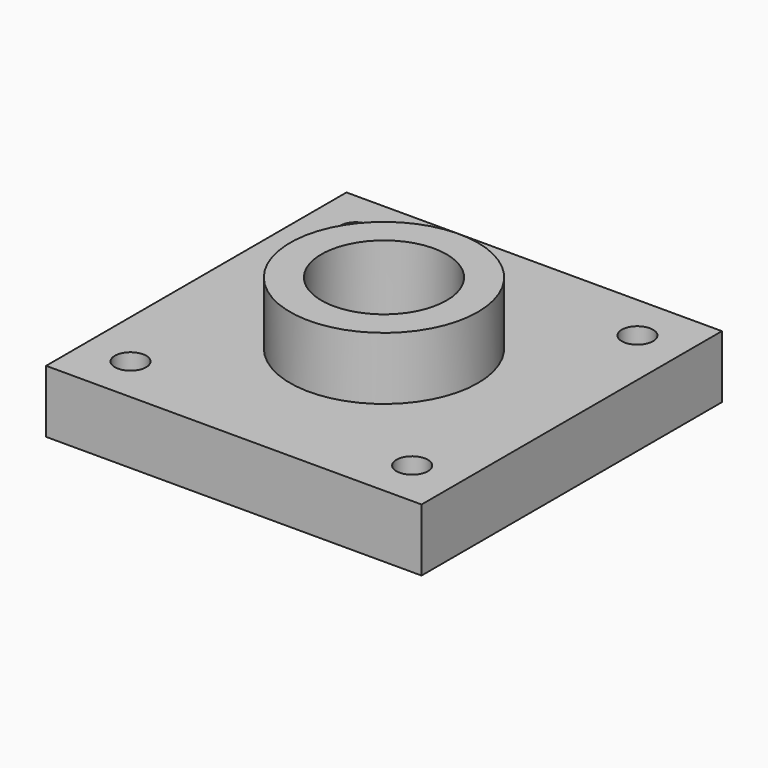
from build123d import *

# Parameters (mm, degrees)
F0_W     = 152.4
F0_H     = 152.4
F0_R     = 6.35
F0_R_2   = 38.1
F1_DEPTH = 25.4
F0_R_3   = 25.4
F2_DEPTH = 50.8


with BuildPart() as f1:
    # F0 (on Top) → F1 (new body)
    with BuildSketch(Plane.XY):
        Rectangle(F0_W, F0_H)
        with Locations((-57.15, -57.15)):
            Circle(F0_R, mode=Mode.SUBTRACT)
        with Locations((57.15, -57.15)):
            Circle(F0_R, mode=Mode.SUBTRACT)
        with Locations((-57.15, 57.15)):
            Circle(F0_R, mode=Mode.SUBTRACT)
        Circle(F0_R_2, mode=Mode.SUBTRACT)
        with Locations((57.15, 57.15)):
            Circle(F0_R, mode=Mode.SUBTRACT)
    extrude(amount=F1_DEPTH)

    # F0 (on Top) → F2 (join)
    with BuildSketch(Plane.XY):
        Circle(F0_R_2)
        Circle(F0_R_3, mode=Mode.SUBTRACT)
    extrude(amount=F2_DEPTH)


solid = f1.part
